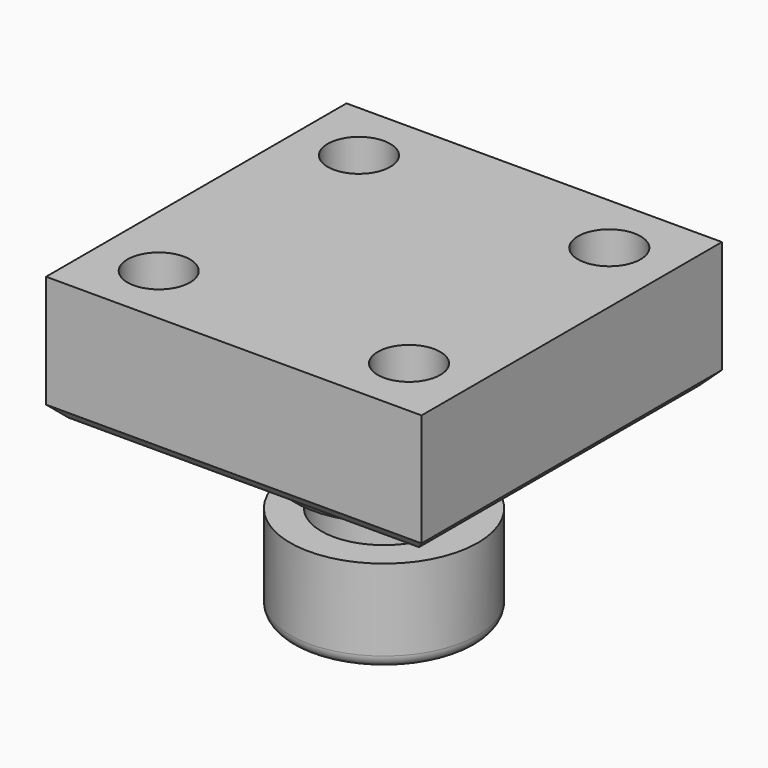
from build123d import *

# Parameters (mm, degrees)
F0_W     = 76.2
F0_H     = 76.2
F1_DEPTH = 25.4
F2_R     = 6.35
F3_DEPTH = 25.4
F4_R     = 6.35
F5_DEPTH = 25.4
F6_W     = 19.05
F6_H     = 38.1
F8_W     = 8.2727996377
F8_H     = 6.35
F10_SIZE = 2.54
F11_R    = 2.54


with BuildPart() as f1:
    # F0 (on Top) → F1 (new body)
    with BuildSketch(Plane.XY):
        Rectangle(F0_W, F0_H)
    extrude(amount=F1_DEPTH)

    # F2 (on face) → F3 (cut)
    with BuildSketch(Plane.XY.offset(25.4)):
        with Locations((25.4, 25.4)):
            Circle(F2_R)
        with Locations((25.4, -25.4)):
            Circle(F2_R)
        with Locations((-25.4, -25.4)):
            Circle(F2_R)
    extrude(amount=-F3_DEPTH, mode=Mode.SUBTRACT)

    # F4 (on face) → F5 (cut)
    with BuildSketch(Plane(origin=(0, 0, 0), x_dir=(1, 0, 0), z_dir=(0, 0, -1))):
        with Locations((-25.4, -25.4)):
            Circle(F4_R)
        with Locations((-25.4, -25.4)):
            Circle(F4_R)
    extrude(amount=-F5_DEPTH, mode=Mode.SUBTRACT)

    # F6 (on Front) → F7 (revolve)
    with BuildSketch(Plane.XZ):
        with Locations((9.525, -19.05)):
            Rectangle(F6_W, F6_H)
    revolve(axis=Axis((0, 0, -19.05), (0, 0, 1)))

    # F8 (on Right) → F9 (revolve, cut)
    with BuildSketch(Plane.YZ):
        with Locations((-16.8363998188, -15.875)):
            Rectangle(F8_W, F8_H)
    revolve(axis=Axis((0, 0, -38.1), (0, 0, 1)), mode=Mode.SUBTRACT)

    # F10
    f10_edges = [f1.edges().sort_by_distance(p)[0] for p in [
        (-38.1, 0, 0),
        (0, 38.1, 0),
        (38.1, 0, 0),
        (0, -38.1, 0),
    ]]
    chamfer(f10_edges, length=F10_SIZE)

    # F11
    f11_edges = [f1.edges().sort_by_distance(p)[0] for p in [
        (-19.05, 0, -12.7),
        (-19.05, 0, 0),
        (-19.05, 0, -38.1),
    ]]
    fillet(f11_edges, radius=F11_R)


solid = f1.part
